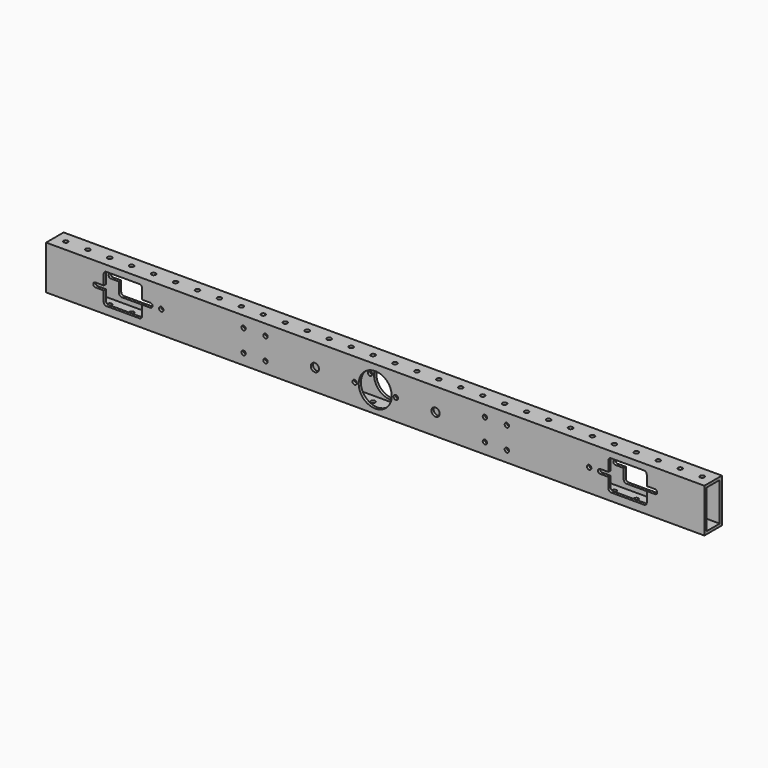
from build123d import *

# Parameters (mm, degrees)
F0_W     = 762
F0_H     = 50.8
F0_R     = 2.5527
F1_DEPTH = 25.4
F2_W     = 19.05
F2_H     = 44.45
F3_DEPTH = 762
F5_D     = 5.1054
F5_DEPTH = 50.8
F5_TIP   = 1.5338169022
F7_D     = 9.525
F7_DEPTH = 3.175
F7_TIP   = 2.8615986981
F8_R     = 2.5527
F9_DEPTH = 25.4


with BuildPart() as f1:
    # F0 (on Front) → F1 (new body)
    with BuildSketch(Plane.XZ):
        Rectangle(F0_W, F0_H)
        with Locations((-69.85, -0.79375)):
            Circle(F0_R, mode=Mode.SUBTRACT)
        with Locations((-23.8125, -0.79375)):
            Circle(F0_R, mode=Mode.SUBTRACT)
        with BuildLine():
            ThreePointArc((-19.1135, -0.79375), (0, 18.31975), (19.1135, -0.79375))
            ThreePointArc((19.1135, -0.79375), (0, -19.90725), (-19.1135, -0.79375))
        make_face(mode=Mode.SUBTRACT)
        with BuildLine():
            ThreePointArc((26.3652, -0.79375), (23.8125, -3.34645), (21.2598, -0.79375))
            ThreePointArc((21.2598, -0.79375), (23.8125, 1.75895), (26.3652, -0.79375))
        make_face(mode=Mode.SUBTRACT)
        with Locations((69.85, -0.79375)):
            Circle(F0_R, mode=Mode.SUBTRACT)
        with BuildLine():
            ThreePointArc((-269.875, -13.50645), (-270.8049359697, -15.7515140303), (-273.05, -16.68145))
            Line((-273.05, -16.68145), (-311.15, -16.68145))
            ThreePointArc((-311.15, -16.68145), (-313.3950640303, -15.7515140303), (-314.325, -13.50645))
            Line((-314.325, -13.50645), (-314.325, -1.75895))
            Line((-314.325, -1.75895), (-323.85, -1.75895))
            ThreePointArc((-323.85, -1.75895), (-326.4027, 0.79375), (-323.85, 3.34645))
            Line((-323.85, 3.34645), (-314.325, 3.34645))
            Line((-314.325, 3.34645), (-314.325, 15.09395))
            ThreePointArc((-314.325, 15.09395), (-313.3950640303, 17.3390140303), (-311.15, 18.26895))
            Line((-311.15, 18.26895), (-273.05, 18.26895))
            ThreePointArc((-273.05, 18.26895), (-270.8049359697, 17.3390140303), (-269.875, 15.09395))
            Line((-269.875, 15.09395), (-269.875, 3.34645))
            Line((-269.875, 3.34645), (-260.35, 3.34645))
            ThreePointArc((-260.35, 3.34645), (-257.7973, 0.79375), (-260.35, -1.75895))
            Line((-260.35, -1.75895), (-269.875, -1.75895))
            Line((-269.875, -1.75895), (-269.875, -13.50645))
        make_face(mode=Mode.SUBTRACT)
        with Locations((-247.65, 0.79375)):
            Circle(F0_R, mode=Mode.SUBTRACT)
        with Locations((247.65, 0.79375)):
            Circle(F0_R, mode=Mode.SUBTRACT)
        with BuildLine():
            Line((273.05, 18.26895), (311.15, 18.26895))
            ThreePointArc((311.15, 18.26895), (313.3950640303, 17.3390140303), (314.325, 15.09395))
            Line((314.325, 15.09395), (314.325, 3.34645))
            Line((314.325, 3.34645), (323.85, 3.34645))
            ThreePointArc((323.85, 3.34645), (326.4027, 0.79375), (323.85, -1.75895))
            Line((323.85, -1.75895), (314.325, -1.75895))
            Line((314.325, -1.75895), (314.325, -13.50645))
            ThreePointArc((314.325, -13.50645), (313.3950640303, -15.7515140303), (311.15, -16.68145))
            Line((311.15, -16.68145), (273.05, -16.68145))
            ThreePointArc((273.05, -16.68145), (270.8049359697, -15.7515140303), (269.875, -13.50645))
            Line((269.875, -13.50645), (269.875, -1.75895))
            Line((269.875, -1.75895), (260.35, -1.75895))
            ThreePointArc((260.35, -1.75895), (257.7973, 0.79375), (260.35, 3.34645))
            Line((260.35, 3.34645), (269.875, 3.34645))
            Line((269.875, 3.34645), (269.875, 15.09395))
            ThreePointArc((269.875, 15.09395), (270.8049359697, 17.3390140303), (273.05, 18.26895))
        make_face(mode=Mode.SUBTRACT)
    extrude(amount=F1_DEPTH)

    # F2 (on face) → F3 (cut)
    with BuildSketch(Plane(origin=(-381, 0, 0), x_dir=(0, -1, 0), z_dir=(-1, 0, 0))):
        with Locations((12.7, 0)):
            Rectangle(F2_W, F2_H)
    extrude(amount=-F3_DEPTH, mode=Mode.SUBTRACT)

    # F5
    with Locations(Plane.XY.offset(25.4)):
        with Locations((190.5, -12.7), (38.1, -12.7), (215.9, -12.7), (63.5, -12.7), (292.1, -12.7), (139.7, -12.7), (-38.1, -12.7), (368.3, -12.7), (241.3, -12.7), (-114.3, -12.7), (88.9, -12.7), (-88.9, -12.7), (317.5, -12.7), (-63.5, -12.7), (-12.7, -12.7), (-342.9, -12.7), (-317.5, -12.7), (-292.1, -12.7), (-266.7, -12.7), (-241.3, -12.7), (-215.9, -12.7), (-190.5, -12.7), (-165.1, -12.7), (-139.7, -12.7), (266.7, -12.7), (165.1, -12.7), (114.3, -12.7), (342.9, -12.7), (12.7, -12.7), (-368.3, -12.7)):
            Hole(F5_D / 2, depth=F5_DEPTH)
            with Locations((0, 0, -(F5_DEPTH + F5_TIP / 2))):  # 118° drill point
                Cone(0, F5_D / 2, F5_TIP, mode=Mode.SUBTRACT)

    # F7
    with Locations(Plane.XZ.offset(25.4)):
        with Locations((-69.85, -0.79375), (69.85, -0.79375)):
            Hole(F7_D / 2, depth=F7_DEPTH)
            with Locations((0, 0, -(F7_DEPTH + F7_TIP / 2))):  # 118° drill point
                Cone(0, F7_D / 2, F7_TIP, mode=Mode.SUBTRACT)

    # F8 (on face) → F9 (cut)
    with BuildSketch(Plane.XZ.offset(25.4)):
        with Locations((-152.4, -12.7)):
            Circle(F8_R)
        with Locations((-152.4, 12.7)):
            Circle(F8_R)
        with Locations((-127, 12.7)):
            Circle(F8_R)
        with Locations((-127, -12.7)):
            Circle(F8_R)
        with Locations((127, -12.7)):
            Circle(F8_R)
        with Locations((127, 12.7)):
            Circle(F8_R)
        with Locations((152.4, -12.7)):
            Circle(F8_R)
        with Locations((152.4, 12.7)):
            Circle(F8_R)
    extrude(amount=-F9_DEPTH, mode=Mode.SUBTRACT)


solid = f1.part
